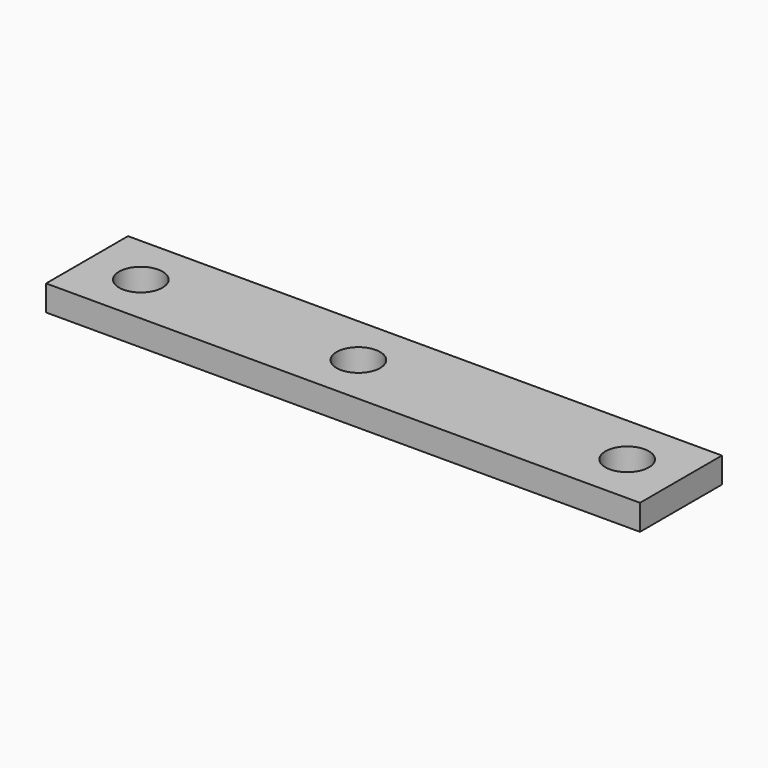
from build123d import *

# Parameters (mm, degrees)
CYLINDER005_R     = 1.7
CYLINDER005_DEPTH = 30
CYLINDER003_R     = 1.7
CYLINDER003_DEPTH = 30
CYLINDER001_R     = 1.7
CYLINDER001_DEPTH = 30
BOX014_W          = 46.4
BOX014_H          = 8
BOX014_DEPTH      = 2


with BuildPart() as cylinder005:
    # Cylinder005 → Cylinder005 (new body)
    with BuildSketch(Plane(origin=(139, 6.8, -127), x_dir=(1, 0, 0), z_dir=(0, 0, 1))):
        Circle(CYLINDER005_R)
    extrude(amount=CYLINDER005_DEPTH)


with BuildPart() as cylinder003:
    # Cylinder003 → Cylinder003 (new body)
    with BuildSketch(Plane(origin=(118, 6.8, -127), x_dir=(1, 0, 0), z_dir=(0, 0, 1))):
        Circle(CYLINDER003_R)
    extrude(amount=CYLINDER003_DEPTH)


with BuildPart() as cylinder001:
    # Cylinder001 → Cylinder001 (new body)
    with BuildSketch(Plane(origin=(101, 6.8, -127), x_dir=(1, 0, 0), z_dir=(0, 0, 1))):
        Circle(CYLINDER001_R)
    extrude(amount=CYLINDER001_DEPTH)


with BuildPart() as cut008:
    # Box014 → Box014 (new body)
    with BuildSketch(Plane(origin=(96.8, 2.8, -110), x_dir=(1, 0, 0), z_dir=(0, 0, 1))):
        with Locations((23.2, 4)):
            Rectangle(BOX014_W, BOX014_H)
    extrude(amount=BOX014_DEPTH)

    # Cut006: cut Cylinder001
    add(cylinder001.part, mode=Mode.SUBTRACT)

    # Cut007: cut Cylinder003
    add(cylinder003.part, mode=Mode.SUBTRACT)

    # Cut008: cut Cylinder005
    add(cylinder005.part, mode=Mode.SUBTRACT)


solid = cut008.part
